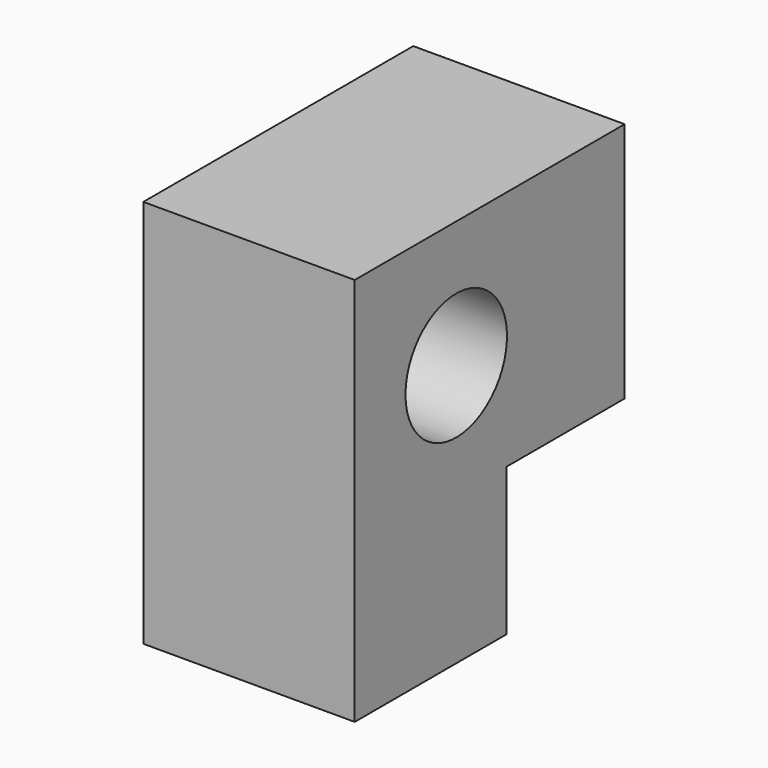
from build123d import *

# Parameters (mm, degrees)
F1_DEPTH = 25.4
F3_D     = 15.24
F4_SIZE  = 5.08


with BuildPart() as f1:
    # F0 (on Right) → F1 (new body)
    with BuildSketch(Plane.YZ):
        Polygon((0, 46.745047), (0, 0), (22.818567, 0), (22.818567, 17.724711), (45.616407, 17.724711), (45.616407, 46.745047), align=None)
    extrude(amount=F1_DEPTH)

    # F3 (through all)
    with Locations(Plane.YZ.offset(25.4)):
        with Locations((15.24, 31.505047)):
            Hole(F3_D / 2)

    # F4
    f4_edges = [f1.edges().sort_by_distance(p)[0] for p in [
        (12.7, 45.616407, 17.724711),
        (0, 45.616407, 32.234879),
        (12.7, 45.616407, 46.745047),
        (25.4, 45.616407, 32.234879),
    ]]
    chamfer(f4_edges, length=F4_SIZE)


solid = f1.part
